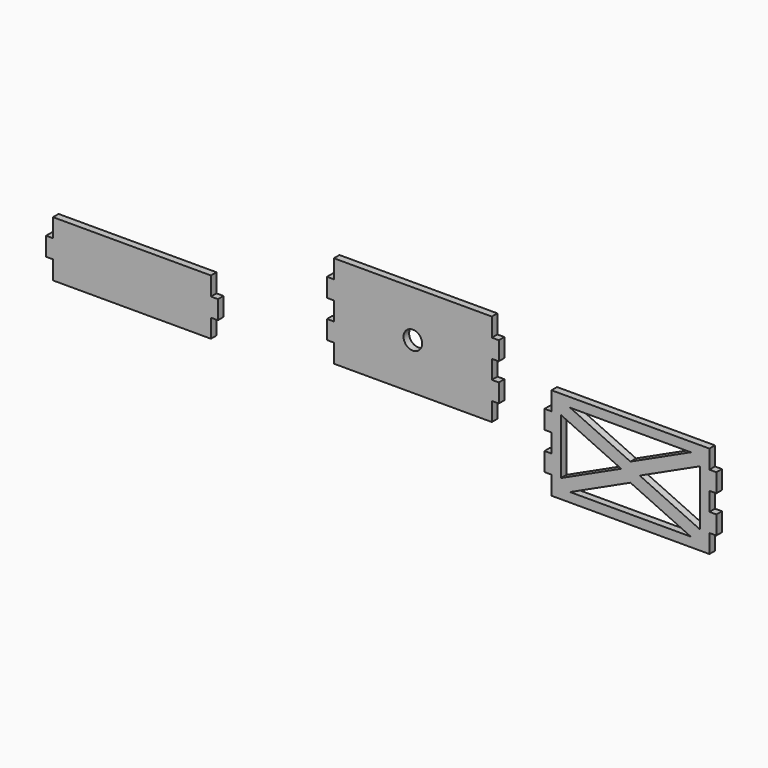
from build123d import *

# Parameters (mm, degrees)
F0_R     = 25.4
F1_DEPTH = 19.05
F2_DEPTH = 19.05


with BuildPart() as f1:
    # F0 (on Front) → F1 (new body)
    with BuildSketch(Plane.XZ):
        Polygon((48.691178, 205.120425), (-383.108822, 205.120425), (-383.108822, 154.320425), (-402.158822, 154.320425), (-402.158822, 103.520425), (-383.108822, 103.520425), (-383.108822, 52.720425), (-402.158822, 52.720425), (-402.158822, 1.920425), (-383.108822, 1.920425), (-383.108822, -48.879575), (48.691178, -48.879575), (48.691178, 1.920425), (67.741178, 1.920425), (67.741178, 52.720425), (48.691178, 52.720425), (48.691178, 103.520425), (67.741178, 103.520425), (67.741178, 154.320425), (48.691178, 154.320425), align=None)
        with Locations((-167.208822, 78.120425)):
            Circle(F0_R, mode=Mode.SUBTRACT)
    extrude(amount=F1_DEPTH)

    # F0 (on Front) → F2 (join)
    with BuildSketch(Plane.XZ):
        Polygon((48.691178, 205.120425), (-383.108822, 205.120425), (-383.108822, 154.320425), (-402.158822, 154.320425), (-402.158822, 103.520425), (-383.108822, 103.520425), (-383.108822, 52.720425), (-402.158822, 52.720425), (-402.158822, 1.920425), (-383.108822, 1.920425), (-383.108822, -48.879575), (48.691178, -48.879575), (48.691178, 1.920425), (67.741178, 1.920425), (67.741178, 52.720425), (48.691178, 52.720425), (48.691178, 103.520425), (67.741178, 103.520425), (67.741178, 154.320425), (48.691178, 154.320425), align=None)
        with Locations((-167.208822, 78.120425)):
            Circle(F0_R, mode=Mode.SUBTRACT)
        Polygon((-1151.293701, -47.404783), (-1151.293701, -98.204783), (-719.493701, -98.204783), (-719.493701, -47.404783), (-700.443701, -47.404783), (-700.443701, 3.395217), (-719.493701, 3.395217), (-719.493701, 54.195217), (-1151.293701, 54.195217), (-1151.293701, 3.395217), (-1170.343701, 3.395217), (-1170.343701, -47.404783), align=None)
        Polygon((643.789858, 80.780788), (211.989858, 80.780788), (211.989858, 29.980788), (192.939858, 29.980788), (192.939858, -20.819212), (211.989858, -20.819212), (211.989858, -71.619212), (192.939858, -71.619212), (192.939858, -122.419212), (211.989858, -122.419212), (211.989858, -173.219212), (643.789858, -173.219212), (643.789858, -122.419212), (662.839858, -122.419212), (662.839858, -71.619212), (643.789858, -71.619212), (643.789858, -20.819212), (662.839858, -20.819212), (662.839858, 29.980788), (643.789858, 29.980788), align=None)
        Polygon((262.789858, -147.819212), (427.889858, -71.619212), (592.989858, -147.819212), align=None, mode=Mode.SUBTRACT)
        Polygon((237.389858, 29.980788), (402.489858, -46.219212), (237.389858, -122.419212), align=None, mode=Mode.SUBTRACT)
        Polygon((618.389858, -122.419212), (453.289858, -46.219212), (618.389858, 29.980788), align=None, mode=Mode.SUBTRACT)
        Polygon((592.989858, 55.380788), (427.889858, -20.819212), (262.789858, 55.380788), align=None, mode=Mode.SUBTRACT)
    extrude(amount=F2_DEPTH)


solid = f1.part
